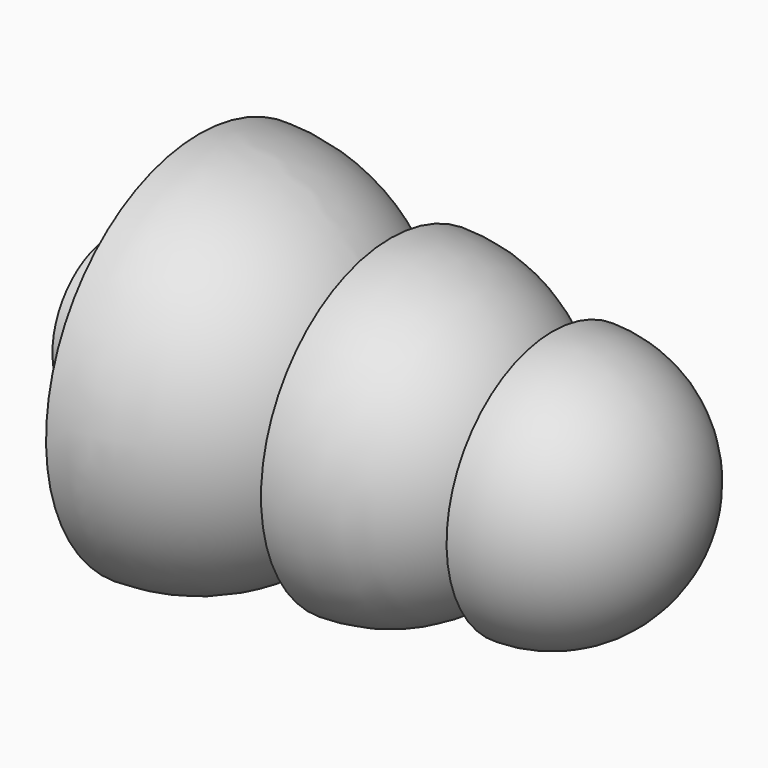
from build123d import *


with BuildPart() as f1:
    # F0 (on Front) → F1 (revolve)
    with BuildSketch(Plane.XZ):
        with BuildLine():
            ThreePointArc((2.700221, 4.8), (5.049689, 4.18569), (6.797781, 2.5))
            Line((6.797781, 2.5), (2.200221, 2.5))
            ThreePointArc((2.200221, 2.5), (-0.194228, 5.408327), (-3.799779, 6.5))
            Line((-3.799779, 6.5), (-3.799779, 5.8))
            ThreePointArc((-3.799779, 5.8), (-0.706238, 4.906119), (1.433766, 2.5))
            Line((1.433766, 2.5), (-6.782609, 2.5))
            Line((-6.782609, 2.5), (-6.782609, 0))
            Line((-6.782609, 0), (12.700221, 0))
            ThreePointArc((12.700221, 0), (11.382201, 3.181981), (8.200221, 4.5))
            Line((8.200221, 4.5), (8.200221, 3.8))
            ThreePointArc((8.200221, 3.8), (10.049545, 3.319639), (11.431319, 2))
            Line((11.431319, 2), (7.823696, 2))
            ThreePointArc((7.823696, 2), (5.802639, 4.541476), (2.700221, 5.5))
            Line((2.700221, 5.5), (2.700221, 4.8))
        make_face()
    revolve(axis=Axis((2.958806, 0, 0), (1, 0, 0)))


solid = f1.part
